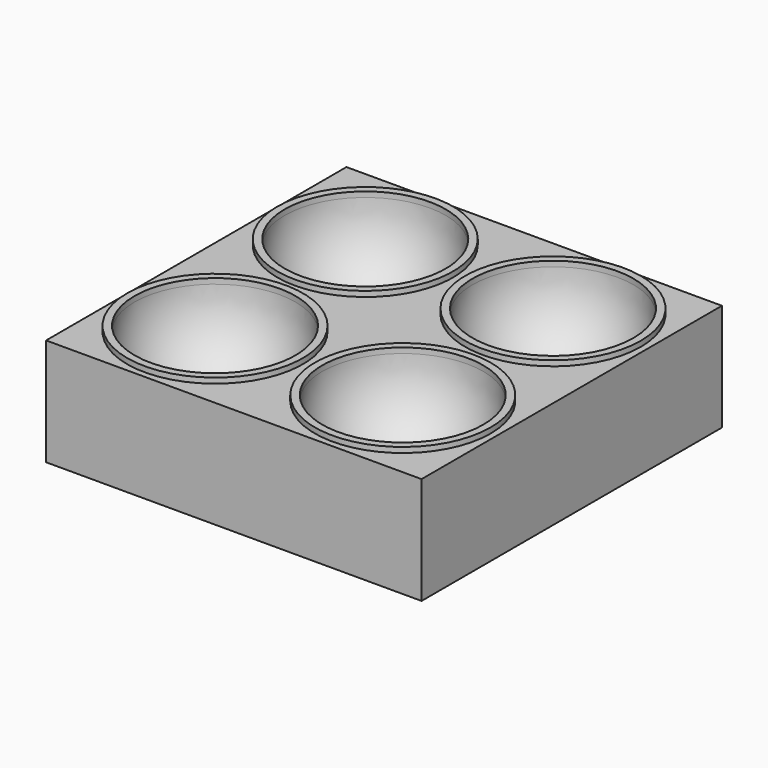
from build123d import *

# Parameters (mm, degrees)
F0_W     = 88.9
F0_H     = 88.9
F1_DEPTH = 50.8
F3_ANGLE = 180
F4_R     = 41.6097493144
F5_DEPTH = 2.54
F6_R     = 6.35
F7_DEPTH = 25.4


with BuildPart() as f1:
    # F0 (on Top) → F1 (new body)
    with BuildSketch(Plane.XY):
        with Locations((98.8394960349, 44.45)):
            Rectangle(F0_W, F0_H)
    extrude(amount=F1_DEPTH)

    # F2 (on face) → F3 (revolve, cut)
    with BuildSketch(Plane.XY.offset(50.8)):
        with BuildLine():
            ThreePointArc((60.7394960349, 44.45), (98.8394960349, 6.35), (136.9394960349, 44.45))
            Line((136.9394960349, 44.45), (60.7394960349, 44.45))
        make_face()
    revolve(axis=Axis((98.8394960349, 44.45, 50.8), (1, 0, 0)), revolution_arc=F3_ANGLE, mode=Mode.SUBTRACT)

    # F4 (on face) → F5 (join)
    with BuildSketch(Plane.XY.offset(50.8)):
        with Locations((98.8394960349, 44.45)):
            Circle(F4_R)
        with BuildLine():
            ThreePointArc((60.7394960349, 44.45), (98.8394960349, 82.55), (136.9394960349, 44.45))
            ThreePointArc((136.9394960349, 44.45), (98.8394960349, 6.35), (60.7394960349, 44.45))
        make_face(mode=Mode.SUBTRACT)
    extrude(amount=F5_DEPTH)

    # F6 (on face) → F7 (cut)
    with BuildSketch(Plane(origin=(0, 0, 0), x_dir=(1, 0, 0), z_dir=(0, 0, -1))):
        with Locations((99.2432538861, -43.760972516)):
            Circle(F6_R)
    extrude(amount=-F7_DEPTH, mode=Mode.SUBTRACT)

    # F8: F1 across face


with BuildPart() as f1_1:
    add(f1.part)
    add(f1.part.mirror(Plane(origin=(54.3894960349, 44.45, 25.4), x_dir=(0, -1, 0), z_dir=(-1, 0, 0))))

    # F9: F1 across face


with BuildPart() as f1_2:
    add(f1_1.part)
    add(f1_1.part.mirror(Plane(origin=(54.3894960349, 0, 25.4), x_dir=(1, 0, 0), z_dir=(0, -1, 0))))


solid = f1_2.part
